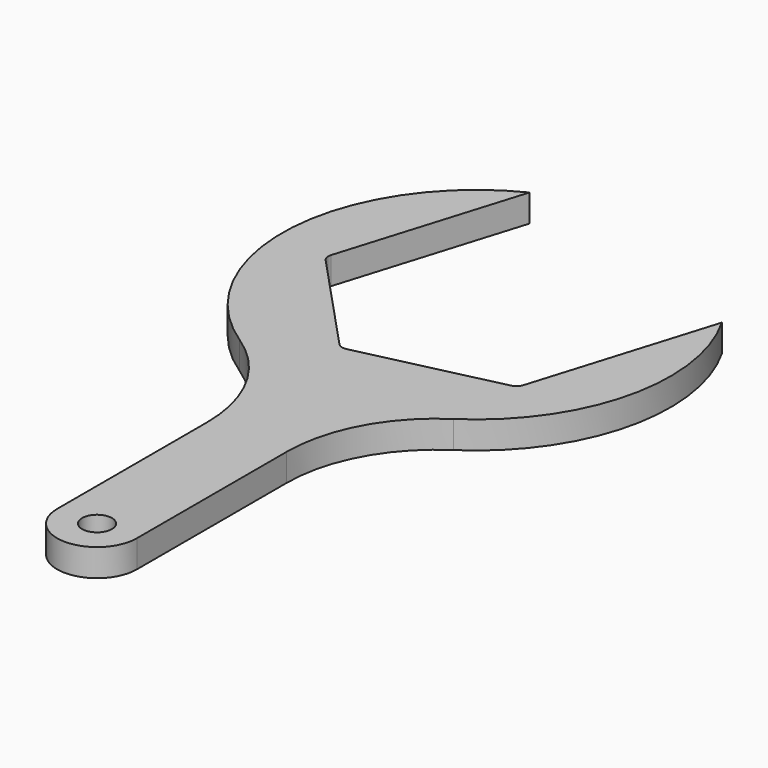
from build123d import *

# Parameters (mm, degrees)
F0_R     = 3
F1_DEPTH = 5.5


with BuildPart() as f1:
    # F0 (on Top) → F1 (new body)
    with BuildSketch(Plane.XY):
        with BuildLine():
            ThreePointArc((20.016402, -37.334316), (36.469331, -13.849316), (32.41687, 14.537683))
            Line((32.41687, 14.537683), (21.40333, -21.485983))
            ThreePointArc((21.40333, -21.485983), (20.854718, -22.363947), (19.940623, -22.849979))
            Line((19.940623, -22.849979), (-7.905742, -29.278819))
            ThreePointArc((-7.905742, -29.278819), (-8.940387, -29.242689), (-9.818351, -28.694076))
            Line((-9.818351, -28.694076), (-29.309072, -7.792837))
            ThreePointArc((-29.309072, -7.792837), (-29.795105, -6.878742), (-29.758974, -5.844096))
            Line((-29.758974, -5.844096), (-18.745434, 30.179569))
            ThreePointArc((-18.745434, 30.179569), (-40.386801, -2.36309), (-22.940119, -37.334316))
            ThreePointArc((-22.940119, -37.334316), (-13.04546, -48.156139), (-9.461859, -62.374926))
            Line((-9.461859, -62.374926), (-9.461859, -100))
            ThreePointArc((-9.461859, -100), (-1.461859, -108), (6.538141, -100))
            Line((6.538141, -100), (6.538141, -62.374926))
            ThreePointArc((6.538141, -62.374926), (10.121743, -48.156139), (20.016402, -37.334316))
        make_face()
        with Locations((-1.461859, -100)):
            Circle(F0_R, mode=Mode.SUBTRACT)
    extrude(amount=F1_DEPTH)


solid = f1.part
